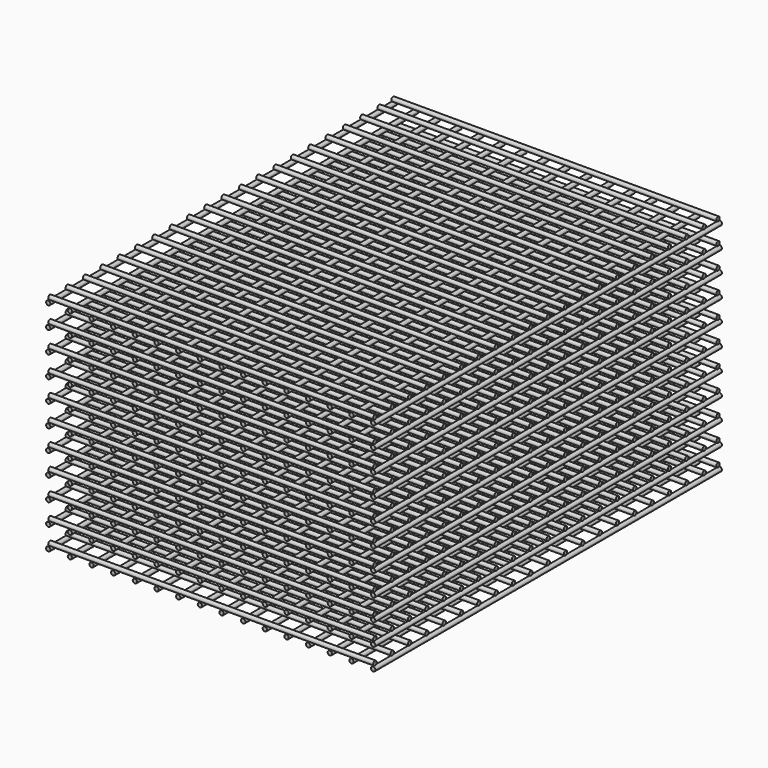
from build123d import *

# Parameters (mm, degrees)
F0_R     = 0.1
F1_DEPTH = 20
F2_R     = 0.1
F3_DEPTH = 15


with BuildPart() as f1:
    # F0 (on Front) → F1 (new body)
    with BuildSketch(Plane.XZ):
        with Locations((-15, 5)):
            Circle(F0_R)
        with Locations((-15, -5)):
            Circle(F0_R)
        with Locations((0, 5)):
            Circle(F0_R)
        with Locations((0, -5)):
            Circle(F0_R)
        with Locations((-15, 4)):
            Circle(F0_R)
        with Locations((-15, 3)):
            Circle(F0_R)
        with Locations((-15, 2)):
            Circle(F0_R)
        with Locations((-15, 1)):
            Circle(F0_R)
        with Locations((-15, 0)):
            Circle(F0_R)
        with Locations((-15, -1)):
            Circle(F0_R)
        with Locations((-15, -2)):
            Circle(F0_R)
        with Locations((-15, -3)):
            Circle(F0_R)
        with Locations((-15, -4)):
            Circle(F0_R)
        with Locations((-10, 5)):
            Circle(F0_R)
        with Locations((-9, 5)):
            Circle(F0_R)
        with Locations((-8, 5)):
            Circle(F0_R)
        with Locations((-7, 5)):
            Circle(F0_R)
        with Locations((-6, 5)):
            Circle(F0_R)
        with Locations((-5, 5)):
            Circle(F0_R)
        with Locations((-4, 5)):
            Circle(F0_R)
        with Locations((-3, 5)):
            Circle(F0_R)
        with Locations((-2, 5)):
            Circle(F0_R)
        with Locations((-1, 5)):
            Circle(F0_R)
        with Locations((-13, 5)):
            Circle(F0_R)
        with Locations((-12, 5)):
            Circle(F0_R)
        with Locations((-11, 5)):
            Circle(F0_R)
        with Locations((-14, 5)):
            Circle(F0_R)
        with Locations((0, 4)):
            Circle(F0_R)
        with Locations((0, 3)):
            Circle(F0_R)
        with Locations((0, 2)):
            Circle(F0_R)
        with Locations((0, -4)):
            Circle(F0_R)
        with Locations((0, -3)):
            Circle(F0_R)
        Circle(F0_R)
        with Locations((0, -2)):
            Circle(F0_R)
        with Locations((0, -1)):
            Circle(F0_R)
        with Locations((0, 1)):
            Circle(F0_R)
        with Locations((-12, -5)):
            Circle(F0_R)
        with Locations((-11, -5)):
            Circle(F0_R)
        with Locations((-10, -5)):
            Circle(F0_R)
        with Locations((-6, -5)):
            Circle(F0_R)
        with Locations((-5, -5)):
            Circle(F0_R)
        with Locations((-4, -5)):
            Circle(F0_R)
        with Locations((-3, -5)):
            Circle(F0_R)
        with Locations((-2, -5)):
            Circle(F0_R)
        with Locations((-1, -5)):
            Circle(F0_R)
        with Locations((-7, -5)):
            Circle(F0_R)
        with Locations((-8, -5)):
            Circle(F0_R)
        with Locations((-9, -5)):
            Circle(F0_R)
        with Locations((-13, -5)):
            Circle(F0_R)
        with Locations((-14, -5)):
            Circle(F0_R)
        with Locations((-14, 4)):
            Circle(F0_R)
        with Locations((-13, 4)):
            Circle(F0_R)
        with Locations((-12, 4)):
            Circle(F0_R)
        with Locations((-11, 4)):
            Circle(F0_R)
        with Locations((-10, 4)):
            Circle(F0_R)
        with Locations((-9, 4)):
            Circle(F0_R)
        with Locations((-8, 4)):
            Circle(F0_R)
        with Locations((-7, 4)):
            Circle(F0_R)
        with Locations((-6, 4)):
            Circle(F0_R)
        with Locations((-5, 4)):
            Circle(F0_R)
        with Locations((-4, 4)):
            Circle(F0_R)
        with Locations((-3, 4)):
            Circle(F0_R)
        with Locations((-2, 4)):
            Circle(F0_R)
        with Locations((-1, 4)):
            Circle(F0_R)
        with Locations((-1, 3)):
            Circle(F0_R)
        with Locations((-2, 3)):
            Circle(F0_R)
        with Locations((-3, 3)):
            Circle(F0_R)
        with Locations((-4, 3)):
            Circle(F0_R)
        with Locations((-5, 3)):
            Circle(F0_R)
        with Locations((-6, 3)):
            Circle(F0_R)
        with Locations((-7, 3)):
            Circle(F0_R)
        with Locations((-8, 3)):
            Circle(F0_R)
        with Locations((-9, 3)):
            Circle(F0_R)
        with Locations((-10, 3)):
            Circle(F0_R)
        with Locations((-11, 3)):
            Circle(F0_R)
        with Locations((-12, 3)):
            Circle(F0_R)
        with Locations((-13, 3)):
            Circle(F0_R)
        with Locations((-14, 3)):
            Circle(F0_R)
        with Locations((-14, 2)):
            Circle(F0_R)
        with Locations((-13, 2)):
            Circle(F0_R)
        with Locations((-12, 2)):
            Circle(F0_R)
        with Locations((-11, 2)):
            Circle(F0_R)
        with Locations((-10, 2)):
            Circle(F0_R)
        with Locations((-9, 2)):
            Circle(F0_R)
        with Locations((-8, 2)):
            Circle(F0_R)
        with Locations((-7, 2)):
            Circle(F0_R)
        with Locations((-6, 2)):
            Circle(F0_R)
        with Locations((-5, 2)):
            Circle(F0_R)
        with Locations((-4, 2)):
            Circle(F0_R)
        with Locations((-3, 2)):
            Circle(F0_R)
        with Locations((-2, 2)):
            Circle(F0_R)
        with Locations((-1, 2)):
            Circle(F0_R)
        with Locations((-1, 1)):
            Circle(F0_R)
        with Locations((-2, 1)):
            Circle(F0_R)
        with Locations((-3, 1)):
            Circle(F0_R)
        with Locations((-4, 1)):
            Circle(F0_R)
        with Locations((-5, 1)):
            Circle(F0_R)
        with Locations((-6, 1)):
            Circle(F0_R)
        with Locations((-7, 1)):
            Circle(F0_R)
        with Locations((-8, 1)):
            Circle(F0_R)
        with Locations((-9, 1)):
            Circle(F0_R)
        with Locations((-10, 1)):
            Circle(F0_R)
        with Locations((-11, 1)):
            Circle(F0_R)
        with Locations((-12, 1)):
            Circle(F0_R)
        with Locations((-13, 1)):
            Circle(F0_R)
        with Locations((-14, 1)):
            Circle(F0_R)
        with Locations((-14, 0)):
            Circle(F0_R)
        with Locations((-13, 0)):
            Circle(F0_R)
        with Locations((-12, 0)):
            Circle(F0_R)
        with Locations((-11, 0)):
            Circle(F0_R)
        with Locations((-10, 0)):
            Circle(F0_R)
        with Locations((-9, 0)):
            Circle(F0_R)
        with Locations((-8, 0)):
            Circle(F0_R)
        with Locations((-7, 0)):
            Circle(F0_R)
        with Locations((-6, 0)):
            Circle(F0_R)
        with Locations((-5, 0)):
            Circle(F0_R)
        with Locations((-4, 0)):
            Circle(F0_R)
        with Locations((-3, 0)):
            Circle(F0_R)
        with Locations((-2, 0)):
            Circle(F0_R)
        with Locations((-1, 0)):
            Circle(F0_R)
        with Locations((-13, -4)):
            Circle(F0_R)
        with Locations((-2, -4)):
            Circle(F0_R)
        with Locations((-1, -4)):
            Circle(F0_R)
        with Locations((-8, -4)):
            Circle(F0_R)
        with Locations((-3, -4)):
            Circle(F0_R)
        with Locations((-14, -4)):
            Circle(F0_R)
        with Locations((-12, -4)):
            Circle(F0_R)
        with Locations((-9, -4)):
            Circle(F0_R)
        with Locations((-6, -4)):
            Circle(F0_R)
        with Locations((-7, -4)):
            Circle(F0_R)
        with Locations((-5, -4)):
            Circle(F0_R)
        with Locations((-11, -4)):
            Circle(F0_R)
        with Locations((-10, -4)):
            Circle(F0_R)
        with Locations((-4, -4)):
            Circle(F0_R)
        with Locations((-2, -3)):
            Circle(F0_R)
        with Locations((-1, -3)):
            Circle(F0_R)
        with Locations((-7, -3)):
            Circle(F0_R)
        with Locations((-3, -3)):
            Circle(F0_R)
        with Locations((-4, -3)):
            Circle(F0_R)
        with Locations((-9, -3)):
            Circle(F0_R)
        with Locations((-8, -3)):
            Circle(F0_R)
        with Locations((-12, -3)):
            Circle(F0_R)
        with Locations((-5, -3)):
            Circle(F0_R)
        with Locations((-10, -3)):
            Circle(F0_R)
        with Locations((-6, -3)):
            Circle(F0_R)
        with Locations((-11, -3)):
            Circle(F0_R)
        with Locations((-14, -3)):
            Circle(F0_R)
        with Locations((-13, -3)):
            Circle(F0_R)
        with Locations((-9, -2)):
            Circle(F0_R)
        with Locations((-2, -2)):
            Circle(F0_R)
        with Locations((-12, -2)):
            Circle(F0_R)
        with Locations((-3, -2)):
            Circle(F0_R)
        with Locations((-7, -2)):
            Circle(F0_R)
        with Locations((-14, -2)):
            Circle(F0_R)
        with Locations((-1, -2)):
            Circle(F0_R)
        with Locations((-8, -2)):
            Circle(F0_R)
        with Locations((-6, -2)):
            Circle(F0_R)
        with Locations((-10, -2)):
            Circle(F0_R)
        with Locations((-13, -2)):
            Circle(F0_R)
        with Locations((-5, -2)):
            Circle(F0_R)
        with Locations((-11, -2)):
            Circle(F0_R)
        with Locations((-4, -2)):
            Circle(F0_R)
        with Locations((-6, -1)):
            Circle(F0_R)
        with Locations((-9, -1)):
            Circle(F0_R)
        with Locations((-7, -1)):
            Circle(F0_R)
        with Locations((-3, -1)):
            Circle(F0_R)
        with Locations((-5, -1)):
            Circle(F0_R)
        with Locations((-1, -1)):
            Circle(F0_R)
        with Locations((-13, -1)):
            Circle(F0_R)
        with Locations((-12, -1)):
            Circle(F0_R)
        with Locations((-8, -1)):
            Circle(F0_R)
        with Locations((-2, -1)):
            Circle(F0_R)
        with Locations((-10, -1)):
            Circle(F0_R)
        with Locations((-11, -1)):
            Circle(F0_R)
        with Locations((-4, -1)):
            Circle(F0_R)
        with Locations((-14, -1)):
            Circle(F0_R)
    extrude(amount=F1_DEPTH)


with BuildPart() as f3:
    # F2 (on Right) → F3 (new body)
    with BuildSketch(Plane.YZ):
        with Locations((-19.9, 4.2)):
            Circle(F2_R)
        with Locations((-19.9, 3.2)):
            Circle(F2_R)
        with Locations((-19.9, 2.2)):
            Circle(F2_R)
        with Locations((-19.9, 1.2)):
            Circle(F2_R)
        with Locations((-19.9, 0.2)):
            Circle(F2_R)
        with Locations((-19.9, -0.8)):
            Circle(F2_R)
        with Locations((-19.9, -1.8)):
            Circle(F2_R)
        with Locations((-19.9, -2.8)):
            Circle(F2_R)
        with Locations((-19.9, -3.8)):
            Circle(F2_R)
        with Locations((-19.9, -4.8)):
            Circle(F2_R)
        with Locations((-19.9, 5.2)):
            Circle(F2_R)
        with Locations((-18.9, -4.8)):
            Circle(F2_R)
        with Locations((-17.9, -4.8)):
            Circle(F2_R)
        with Locations((-12.9, -4.8)):
            Circle(F2_R)
        with Locations((-16.9, -4.8)):
            Circle(F2_R)
        with Locations((-11.9, -4.8)):
            Circle(F2_R)
        with Locations((-10.9, -4.8)):
            Circle(F2_R)
        with Locations((-15.9, -4.8)):
            Circle(F2_R)
        with Locations((-9.9, -4.8)):
            Circle(F2_R)
        with Locations((-8.9, -4.8)):
            Circle(F2_R)
        with Locations((-14.9, -4.8)):
            Circle(F2_R)
        with Locations((-13.9, -4.8)):
            Circle(F2_R)
        with Locations((-7.9, -4.8)):
            Circle(F2_R)
        with Locations((-6.9, -4.8)):
            Circle(F2_R)
        with Locations((-5.9, -4.8)):
            Circle(F2_R)
        with Locations((-4.9, -4.8)):
            Circle(F2_R)
        with Locations((-3.9, -4.8)):
            Circle(F2_R)
        with Locations((-2.9, -4.8)):
            Circle(F2_R)
        with Locations((-1.9, -4.8)):
            Circle(F2_R)
        with Locations((-0.9, -4.8)):
            Circle(F2_R)
        with Locations((-0.1, -4.8)):
            Circle(F2_R)
        with Locations((-0.1, -3.8)):
            Circle(F2_R)
        with Locations((-0.1, -2.8)):
            Circle(F2_R)
        with Locations((-0.1, -1.8)):
            Circle(F2_R)
        with Locations((-0.1, -0.8)):
            Circle(F2_R)
        with Locations((-0.1, 0.2)):
            Circle(F2_R)
        with Locations((-0.1, 1.2)):
            Circle(F2_R)
        with Locations((-0.1, 2.2)):
            Circle(F2_R)
        with Locations((-0.1, 3.2)):
            Circle(F2_R)
        with Locations((-0.1, 4.2)):
            Circle(F2_R)
        with Locations((-0.1, 5.2)):
            Circle(F2_R)
        with Locations((-18.9, 5.2)):
            Circle(F2_R)
        with Locations((-17.9, 5.2)):
            Circle(F2_R)
        with Locations((-16.9, 5.2)):
            Circle(F2_R)
        with Locations((-15.9, 5.2)):
            Circle(F2_R)
        with Locations((-14.9, 5.2)):
            Circle(F2_R)
        with Locations((-13.9, 5.2)):
            Circle(F2_R)
        with Locations((-12.9, 5.2)):
            Circle(F2_R)
        with Locations((-11.9, 5.2)):
            Circle(F2_R)
        with Locations((-10.9, 5.2)):
            Circle(F2_R)
        with Locations((-9.9, 5.2)):
            Circle(F2_R)
        with Locations((-8.9, 5.2)):
            Circle(F2_R)
        with Locations((-7.9, 5.2)):
            Circle(F2_R)
        with Locations((-6.9, 5.2)):
            Circle(F2_R)
        with Locations((-5.9, 5.2)):
            Circle(F2_R)
        with Locations((-4.9, 5.2)):
            Circle(F2_R)
        with Locations((-3.9, 5.2)):
            Circle(F2_R)
        with Locations((-2.9, 5.2)):
            Circle(F2_R)
        with Locations((-1.9, 5.2)):
            Circle(F2_R)
        with Locations((-0.9, 5.2)):
            Circle(F2_R)
        with Locations((-0.9, 4.2)):
            Circle(F2_R)
        with Locations((-6.9, 4.2)):
            Circle(F2_R)
        with Locations((-4.9, 4.2)):
            Circle(F2_R)
        with Locations((-5.9, 4.2)):
            Circle(F2_R)
        with Locations((-3.9, 4.2)):
            Circle(F2_R)
        with Locations((-2.9, 4.2)):
            Circle(F2_R)
        with Locations((-8.9, 4.2)):
            Circle(F2_R)
        with Locations((-1.9, 4.2)):
            Circle(F2_R)
        with Locations((-7.9, 4.2)):
            Circle(F2_R)
        with Locations((-11.9, 4.2)):
            Circle(F2_R)
        with Locations((-14.9, 4.2)):
            Circle(F2_R)
        with Locations((-10.9, 4.2)):
            Circle(F2_R)
        with Locations((-15.9, 4.2)):
            Circle(F2_R)
        with Locations((-9.9, 4.2)):
            Circle(F2_R)
        with Locations((-18.9, 4.2)):
            Circle(F2_R)
        with Locations((-13.9, 4.2)):
            Circle(F2_R)
        with Locations((-12.9, 4.2)):
            Circle(F2_R)
        with Locations((-17.9, 4.2)):
            Circle(F2_R)
        with Locations((-16.9, 4.2)):
            Circle(F2_R)
        with Locations((-17.9, 3.2)):
            Circle(F2_R)
        with Locations((-4.9, 3.2)):
            Circle(F2_R)
        with Locations((-5.9, 3.2)):
            Circle(F2_R)
        with Locations((-9.9, 3.2)):
            Circle(F2_R)
        with Locations((-8.9, 3.2)):
            Circle(F2_R)
        with Locations((-2.9, 3.2)):
            Circle(F2_R)
        with Locations((-13.9, 3.2)):
            Circle(F2_R)
        with Locations((-0.9, 3.2)):
            Circle(F2_R)
        with Locations((-3.9, 3.2)):
            Circle(F2_R)
        with Locations((-10.9, 3.2)):
            Circle(F2_R)
        with Locations((-18.9, 3.2)):
            Circle(F2_R)
        with Locations((-6.9, 3.2)):
            Circle(F2_R)
        with Locations((-15.9, 3.2)):
            Circle(F2_R)
        with Locations((-14.9, 3.2)):
            Circle(F2_R)
        with Locations((-12.9, 3.2)):
            Circle(F2_R)
        with Locations((-1.9, 3.2)):
            Circle(F2_R)
        with Locations((-16.9, 3.2)):
            Circle(F2_R)
        with Locations((-11.9, 3.2)):
            Circle(F2_R)
        with Locations((-7.9, 3.2)):
            Circle(F2_R)
        with Locations((-17.9, 2.2)):
            Circle(F2_R)
        with Locations((-4.9, 2.2)):
            Circle(F2_R)
        with Locations((-3.9, 2.2)):
            Circle(F2_R)
        with Locations((-11.9, 2.2)):
            Circle(F2_R)
        with Locations((-14.9, 2.2)):
            Circle(F2_R)
        with Locations((-5.9, 2.2)):
            Circle(F2_R)
        with Locations((-2.9, 2.2)):
            Circle(F2_R)
        with Locations((-0.9, 2.2)):
            Circle(F2_R)
        with Locations((-8.9, 2.2)):
            Circle(F2_R)
        with Locations((-9.9, 2.2)):
            Circle(F2_R)
        with Locations((-16.9, 2.2)):
            Circle(F2_R)
        with Locations((-12.9, 2.2)):
            Circle(F2_R)
        with Locations((-7.9, 2.2)):
            Circle(F2_R)
        with Locations((-15.9, 2.2)):
            Circle(F2_R)
        with Locations((-1.9, 2.2)):
            Circle(F2_R)
        with Locations((-6.9, 2.2)):
            Circle(F2_R)
        with Locations((-18.9, 2.2)):
            Circle(F2_R)
        with Locations((-13.9, 2.2)):
            Circle(F2_R)
        with Locations((-10.9, 2.2)):
            Circle(F2_R)
        with Locations((-2.9, 1.2)):
            Circle(F2_R)
        with Locations((-12.9, 1.2)):
            Circle(F2_R)
        with Locations((-1.9, 1.2)):
            Circle(F2_R)
        with Locations((-4.9, 1.2)):
            Circle(F2_R)
        with Locations((-13.9, 1.2)):
            Circle(F2_R)
        with Locations((-14.9, 1.2)):
            Circle(F2_R)
        with Locations((-10.9, 1.2)):
            Circle(F2_R)
        with Locations((-16.9, 1.2)):
            Circle(F2_R)
        with Locations((-11.9, 1.2)):
            Circle(F2_R)
        with Locations((-5.9, 1.2)):
            Circle(F2_R)
        with Locations((-8.9, 1.2)):
            Circle(F2_R)
        with Locations((-0.9, 1.2)):
            Circle(F2_R)
        with Locations((-15.9, 1.2)):
            Circle(F2_R)
        with Locations((-9.9, 1.2)):
            Circle(F2_R)
        with Locations((-18.9, 1.2)):
            Circle(F2_R)
        with Locations((-17.9, 1.2)):
            Circle(F2_R)
        with Locations((-7.9, 1.2)):
            Circle(F2_R)
        with Locations((-3.9, 1.2)):
            Circle(F2_R)
        with Locations((-6.9, 1.2)):
            Circle(F2_R)
        with Locations((-13.9, 0.2)):
            Circle(F2_R)
        with Locations((-1.9, 0.2)):
            Circle(F2_R)
        with Locations((-18.9, 0.2)):
            Circle(F2_R)
        with Locations((-4.9, 0.2)):
            Circle(F2_R)
        with Locations((-10.9, 0.2)):
            Circle(F2_R)
        with Locations((-14.9, 0.2)):
            Circle(F2_R)
        with Locations((-15.9, 0.2)):
            Circle(F2_R)
        with Locations((-2.9, 0.2)):
            Circle(F2_R)
        with Locations((-8.9, 0.2)):
            Circle(F2_R)
        with Locations((-5.9, 0.2)):
            Circle(F2_R)
        with Locations((-11.9, 0.2)):
            Circle(F2_R)
        with Locations((-17.9, 0.2)):
            Circle(F2_R)
        with Locations((-3.9, 0.2)):
            Circle(F2_R)
        with Locations((-7.9, 0.2)):
            Circle(F2_R)
        with Locations((-9.9, 0.2)):
            Circle(F2_R)
        with Locations((-12.9, 0.2)):
            Circle(F2_R)
        with Locations((-6.9, 0.2)):
            Circle(F2_R)
        with Locations((-16.9, 0.2)):
            Circle(F2_R)
        with Locations((-0.9, 0.2)):
            Circle(F2_R)
        with Locations((-1.9, -3.8)):
            Circle(F2_R)
        with Locations((-6.9, -3.8)):
            Circle(F2_R)
        with Locations((-0.9, -3.8)):
            Circle(F2_R)
        with Locations((-7.9, -3.8)):
            Circle(F2_R)
        with Locations((-14.9, -3.8)):
            Circle(F2_R)
        with Locations((-9.9, -3.8)):
            Circle(F2_R)
        with Locations((-18.9, -3.8)):
            Circle(F2_R)
        with Locations((-12.9, -3.8)):
            Circle(F2_R)
        with Locations((-17.9, -3.8)):
            Circle(F2_R)
        with Locations((-5.9, -3.8)):
            Circle(F2_R)
        with Locations((-3.9, -3.8)):
            Circle(F2_R)
        with Locations((-8.9, -3.8)):
            Circle(F2_R)
        with Locations((-16.9, -3.8)):
            Circle(F2_R)
        with Locations((-10.9, -3.8)):
            Circle(F2_R)
        with Locations((-11.9, -3.8)):
            Circle(F2_R)
        with Locations((-15.9, -3.8)):
            Circle(F2_R)
        with Locations((-4.9, -3.8)):
            Circle(F2_R)
        with Locations((-13.9, -3.8)):
            Circle(F2_R)
        with Locations((-2.9, -3.8)):
            Circle(F2_R)
        with Locations((-11.9, -2.8)):
            Circle(F2_R)
        with Locations((-17.9, -2.8)):
            Circle(F2_R)
        with Locations((-1.9, -2.8)):
            Circle(F2_R)
        with Locations((-8.9, -2.8)):
            Circle(F2_R)
        with Locations((-9.9, -2.8)):
            Circle(F2_R)
        with Locations((-13.9, -2.8)):
            Circle(F2_R)
        with Locations((-6.9, -2.8)):
            Circle(F2_R)
        with Locations((-15.9, -2.8)):
            Circle(F2_R)
        with Locations((-14.9, -2.8)):
            Circle(F2_R)
        with Locations((-0.9, -2.8)):
            Circle(F2_R)
        with Locations((-4.9, -2.8)):
            Circle(F2_R)
        with Locations((-5.9, -2.8)):
            Circle(F2_R)
        with Locations((-16.9, -2.8)):
            Circle(F2_R)
        with Locations((-12.9, -2.8)):
            Circle(F2_R)
        with Locations((-10.9, -2.8)):
            Circle(F2_R)
        with Locations((-3.9, -2.8)):
            Circle(F2_R)
        with Locations((-7.9, -2.8)):
            Circle(F2_R)
        with Locations((-18.9, -2.8)):
            Circle(F2_R)
        with Locations((-2.9, -2.8)):
            Circle(F2_R)
        with Locations((-1.9, -1.8)):
            Circle(F2_R)
        with Locations((-10.9, -1.8)):
            Circle(F2_R)
        with Locations((-6.9, -1.8)):
            Circle(F2_R)
        with Locations((-15.9, -1.8)):
            Circle(F2_R)
        with Locations((-18.9, -1.8)):
            Circle(F2_R)
        with Locations((-9.9, -1.8)):
            Circle(F2_R)
        with Locations((-13.9, -1.8)):
            Circle(F2_R)
        with Locations((-0.9, -1.8)):
            Circle(F2_R)
        with Locations((-14.9, -1.8)):
            Circle(F2_R)
        with Locations((-4.9, -1.8)):
            Circle(F2_R)
        with Locations((-17.9, -1.8)):
            Circle(F2_R)
        with Locations((-2.9, -1.8)):
            Circle(F2_R)
        with Locations((-8.9, -1.8)):
            Circle(F2_R)
        with Locations((-3.9, -1.8)):
            Circle(F2_R)
        with Locations((-7.9, -1.8)):
            Circle(F2_R)
        with Locations((-11.9, -1.8)):
            Circle(F2_R)
        with Locations((-5.9, -1.8)):
            Circle(F2_R)
        with Locations((-12.9, -1.8)):
            Circle(F2_R)
        with Locations((-16.9, -1.8)):
            Circle(F2_R)
        with Locations((-3.9, -0.8)):
            Circle(F2_R)
        with Locations((-13.9, -0.8)):
            Circle(F2_R)
        with Locations((-17.9, -0.8)):
            Circle(F2_R)
        with Locations((-1.9, -0.8)):
            Circle(F2_R)
        with Locations((-0.9, -0.8)):
            Circle(F2_R)
        with Locations((-6.9, -0.8)):
            Circle(F2_R)
        with Locations((-12.9, -0.8)):
            Circle(F2_R)
        with Locations((-8.9, -0.8)):
            Circle(F2_R)
        with Locations((-18.9, -0.8)):
            Circle(F2_R)
        with Locations((-16.9, -0.8)):
            Circle(F2_R)
        with Locations((-2.9, -0.8)):
            Circle(F2_R)
        with Locations((-11.9, -0.8)):
            Circle(F2_R)
        with Locations((-10.9, -0.8)):
            Circle(F2_R)
        with Locations((-4.9, -0.8)):
            Circle(F2_R)
        with Locations((-5.9, -0.8)):
            Circle(F2_R)
        with Locations((-15.9, -0.8)):
            Circle(F2_R)
        with Locations((-14.9, -0.8)):
            Circle(F2_R)
        with Locations((-9.9, -0.8)):
            Circle(F2_R)
        with Locations((-7.9, -0.8)):
            Circle(F2_R)
    extrude(amount=-F3_DEPTH)


solid = Compound([f1.part, f3.part])
